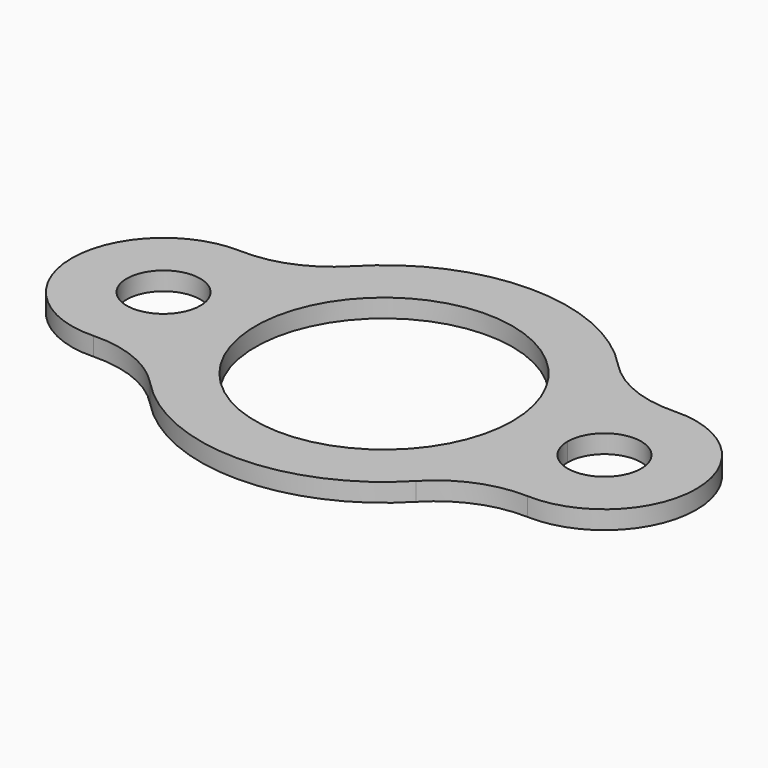
from build123d import *

# Parameters (mm, degrees)
F0_R     = 12.702624
F1_DEPTH = 6.35


with BuildPart() as f1:
    # F0 (on Top) → F1 (new body)
    with BuildSketch(Plane.XY):
        with BuildLine():
            ThreePointArc((-75.035409, -31.732835), (-59.233736, -34.53505), (-45.987688, -43.595266))
            ThreePointArc((-45.987688, -43.595266), (0.002444, -63.3673), (45.991051, -43.591718))
            ThreePointArc((45.991051, -43.591718), (59.236456, -34.530457), (75.037979, -31.727051))
            ThreePointArc((75.037979, -31.727051), (107.948332, 0), (75.037979, 31.727051))
            ThreePointArc((75.037979, 31.727051), (59.236456, 34.530457), (45.991051, 43.591718))
            ThreePointArc((45.991051, 43.591718), (0.002444, 63.3673), (-45.987688, 43.595266))
            ThreePointArc((-45.987688, 43.595266), (-59.233736, 34.53505), (-75.035409, 31.732835))
            ThreePointArc((-75.035409, 31.732835), (-107.954199, 0), (-75.035409, -31.732835))
        make_face()
        with Locations((-76.200001, 0)):
            Circle(F0_R, mode=Mode.SUBTRACT)
        with BuildLine():
            ThreePointArc((-44.444001, 0), (0, 44.444001), (44.444001, 0))
            ThreePointArc((44.444001, 0), (0, -44.444001), (-44.444001, 0))
        make_face(mode=Mode.SUBTRACT)
        with BuildLine():
            ThreePointArc((63.497385, 0), (76.200008, 12.702624), (88.902632, 0))
            ThreePointArc((88.902632, 0), (76.200008, -12.702624), (63.497385, 0))
        make_face(mode=Mode.SUBTRACT)
    extrude(amount=F1_DEPTH)


solid = f1.part
